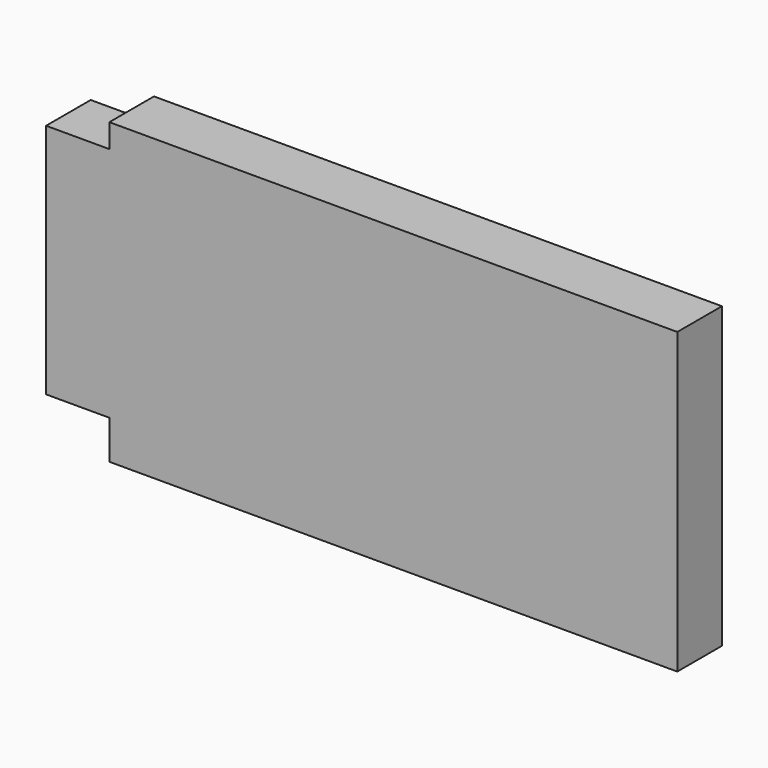
from build123d import *

# Parameters (mm, degrees)
F0_W     = 28.8229137659
F0_H     = 107.7256500721
F0_W_2   = 258.6856633425
F0_H_2   = 17.6540315151
F0_H_3   = 10.8085945249
F2_DEPTH = 25.4


with BuildPart() as f2:
    # F0 (on Front) → F2 (new body)
    with BuildSketch(Plane.XZ):
        with Locations((-130.2435472608, 4.3234378099)):
            Rectangle(F0_W, F0_H)
        with Locations((13.5107412934, -58.3664029837)):
            Rectangle(F0_W_2, F0_H_2)
        with Locations((13.5107412934, 63.5905601084)):
            Rectangle(F0_W_2, F0_H_3)
        with Locations((13.5107412934, 4.3234378099)):
            Rectangle(F0_W_2, F0_H)
    extrude(amount=F2_DEPTH)


solid = f2.part
